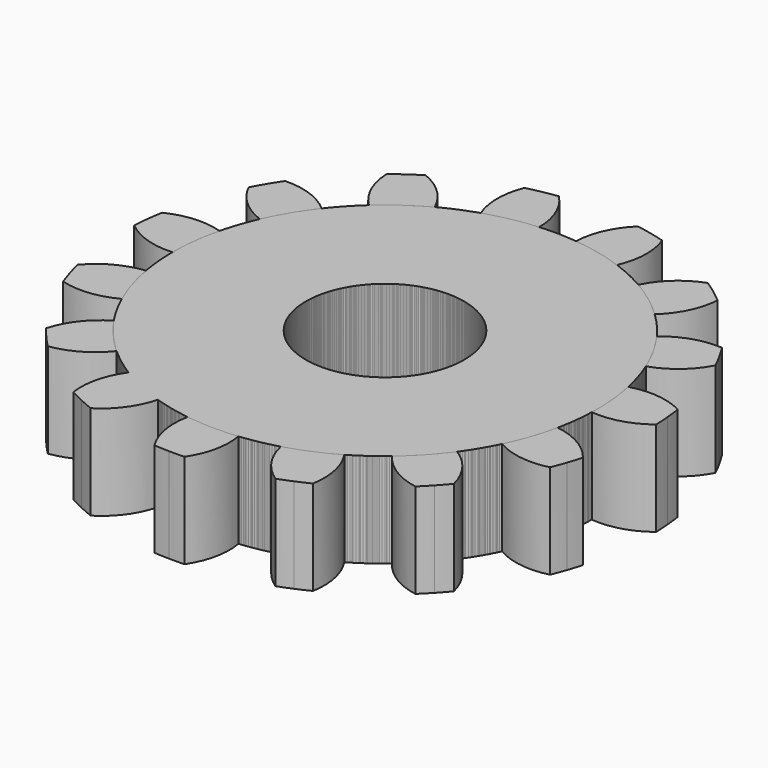
from build123d import *

# Parameters (mm, degrees)
F1_DEPTH = 25
F2_COUNT = 15


with BuildPart() as f1:
    # F0 (on Top) → F1 (new body)
    with BuildSketch(Plane.XY):
        with BuildLine():
            ThreePointArc((-40.662641, -12.513739), (-39.317675, -14.011966), (-37.930136, -15.470854))
            ThreePointArc((-37.930136, -15.470854), (-31.010373, -13.086867), (-25.480469, -8.292424))
            ThreePointArc((-25.480469, -8.292424), (-27.943316, -5.939373), (-30.258898, -3.441265))
            Line((-30.258898, -3.441265), (-40.662641, -12.513739))
        make_face()
        with BuildLine():
            ThreePointArc((68.174395, 33.449296), (-4.428852, 87.106905), (-34.41473, 1.952824))
            ThreePointArc((-34.41473, 1.952824), (-32.418687, -0.807299), (-30.258898, -3.441265))
            ThreePointArc((-30.258898, -3.441265), (-27.943316, -5.939373), (-25.480469, -8.292424))
            ThreePointArc((-25.480469, -8.292424), (34.894857, -17.818639), (68.174395, 33.449296))
        make_face()
        with BuildLine():
            ThreePointArc((32.983983, 33.449296), (19.393259, 13.841964), (-3.736539, 19.687279))
            ThreePointArc((-3.736539, 19.687279), (4.696495, 53.056628), (32.983983, 33.449296))
        make_face(mode=Mode.SUBTRACT)
        with BuildLine():
            ThreePointArc((-34.41473, 1.952824), (-39.917041, -2.873261), (-43.220436, -9.404271))
            ThreePointArc((-43.220436, -9.404271), (-41.963921, -10.977417), (-40.662641, -12.513739))
            Line((-40.662641, -12.513739), (-30.258898, -3.441265))
            ThreePointArc((-30.258898, -3.441265), (-32.418687, -0.807299), (-34.41473, 1.952824))
        make_face()
    extrude(amount=F1_DEPTH)


with BuildPart() as f2_1:
    # F2: instance of F1
    add(f1.part.rotate(Axis((12.044877, 33.449296, 0), (0, 0, -1)), 1 * 360 / F2_COUNT))


with BuildPart() as f2_2:
    # F2: instance of F1
    add(f1.part.rotate(Axis((12.044877, 33.449296, 0), (0, 0, -1)), 2 * 360 / F2_COUNT))


with BuildPart() as f2_3:
    # F2: instance of F1
    add(f1.part.rotate(Axis((12.044877, 33.449296, 0), (0, 0, -1)), 3 * 360 / F2_COUNT))


with BuildPart() as f2_4:
    # F2: instance of F1
    add(f1.part.rotate(Axis((12.044877, 33.449296, 0), (0, 0, -1)), 4 * 360 / F2_COUNT))


with BuildPart() as f2_5:
    # F2: instance of F1
    add(f1.part.rotate(Axis((12.044877, 33.449296, 0), (0, 0, -1)), 5 * 360 / F2_COUNT))


with BuildPart() as f2_6:
    # F2: instance of F1
    add(f1.part.rotate(Axis((12.044877, 33.449296, 0), (0, 0, -1)), 6 * 360 / F2_COUNT))


with BuildPart() as f2_7:
    # F2: instance of F1
    add(f1.part.rotate(Axis((12.044877, 33.449296, 0), (0, 0, -1)), 7 * 360 / F2_COUNT))


with BuildPart() as f2_8:
    # F2: instance of F1
    add(f1.part.rotate(Axis((12.044877, 33.449296, 0), (0, 0, -1)), 8 * 360 / F2_COUNT))


with BuildPart() as f2_9:
    # F2: instance of F1
    add(f1.part.rotate(Axis((12.044877, 33.449296, 0), (0, 0, -1)), 9 * 360 / F2_COUNT))


with BuildPart() as f2_10:
    # F2: instance of F1
    add(f1.part.rotate(Axis((12.044877, 33.449296, 0), (0, 0, -1)), 10 * 360 / F2_COUNT))


with BuildPart() as f2_11:
    # F2: instance of F1
    add(f1.part.rotate(Axis((12.044877, 33.449296, 0), (0, 0, -1)), 11 * 360 / F2_COUNT))


with BuildPart() as f2_12:
    # F2: instance of F1
    add(f1.part.rotate(Axis((12.044877, 33.449296, 0), (0, 0, -1)), 12 * 360 / F2_COUNT))


with BuildPart() as f2_13:
    # F2: instance of F1
    add(f1.part.rotate(Axis((12.044877, 33.449296, 0), (0, 0, -1)), 13 * 360 / F2_COUNT))


with BuildPart() as f2_14:
    # F2: instance of F1
    add(f1.part.rotate(Axis((12.044877, 33.449296, 0), (0, 0, -1)), 14 * 360 / F2_COUNT))


solid = Compound([f1.part, f2_1.part, f2_2.part, f2_3.part, f2_4.part, f2_5.part, f2_6.part, f2_7.part, f2_8.part, f2_9.part, f2_10.part, f2_11.part, f2_12.part, f2_13.part, f2_14.part])
